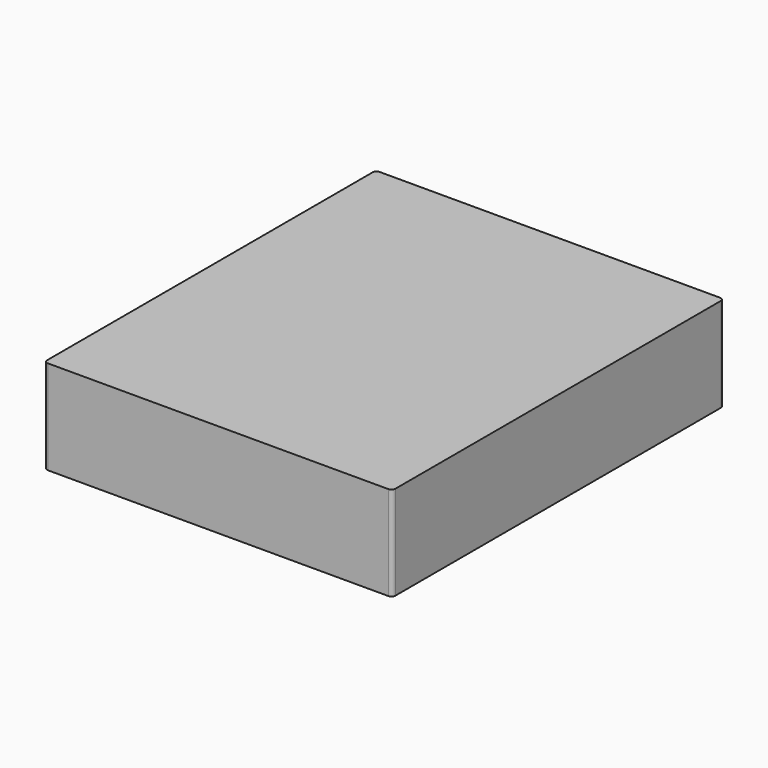
from build123d import *

# Parameters (mm, degrees)
F0_W     = 183.4
F0_H     = 218.4
F1_DEPTH = 49.6
F2_T     = -1.2
F3_R     = 2
F4_R     = 0.8


with BuildPart() as f1:
    # F0 (on Top) → F1 (new body)
    with BuildSketch(Plane.XY):
        Rectangle(F0_W, F0_H)
    extrude(amount=F1_DEPTH)

    # F2
    f2_openings = [f1.faces().sort_by_distance(p)[0] for p in [
        (0, 0, 0),
    ]]
    offset(amount=F2_T, openings=f2_openings)

    # F3
    f3_edges = [f1.edges().sort_by_distance(p)[0] for p in [
        (-91.7, -109.2, 24.8),
        (-91.7, 109.2, 24.8),
        (91.7, 109.2, 24.8),
        (91.7, -109.2, 24.8),
    ]]
    fillet(f3_edges, radius=F3_R)

    # F4
    f4_edges = [f1.edges().sort_by_distance(p)[0] for p in [
        (-90.5, -108, 24.2),
        (90.5, -108, 24.2),
        (90.5, 108, 24.2),
        (-90.5, 108, 24.2),
    ]]
    fillet(f4_edges, radius=F4_R)


solid = f1.part
